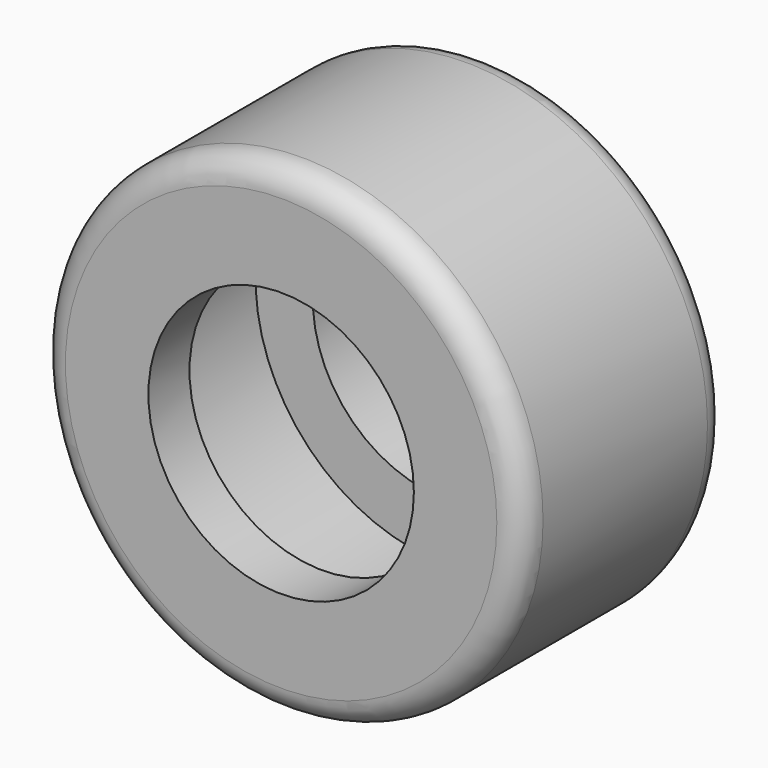
from build123d import *

# Parameters (mm, degrees)
F0_R     = 47.741436
F0_R_2   = 26.252537
F1_DEPTH = 25.4
F2_R     = 5.08
F3_R     = 5.08
F4_T     = -10.16


with BuildPart() as f1:
    # F0 (on Front) → F1 (new body, symmetric)
    with BuildSketch(Plane.XZ):
        Circle(F0_R)
        Circle(F0_R_2, mode=Mode.SUBTRACT)
    extrude(amount=F1_DEPTH, both=True)

    # F2
    f2_edges = [f1.edges().sort_by_distance(p)[0] for p in [
        (-47.741436, -25.4, 0),
    ]]
    fillet(f2_edges, radius=F2_R)

    # F3
    f3_edges = [f1.edges().sort_by_distance(p)[0] for p in [
        (-47.741436, 25.4, 0),
    ]]
    fillet(f3_edges, radius=F3_R)

    # F4
    f4_openings = [f1.faces().sort_by_distance(p)[0] for p in [
        (-26.252537, 0, 0),
    ]]
    offset(amount=F4_T, openings=f4_openings)


solid = f1.part
